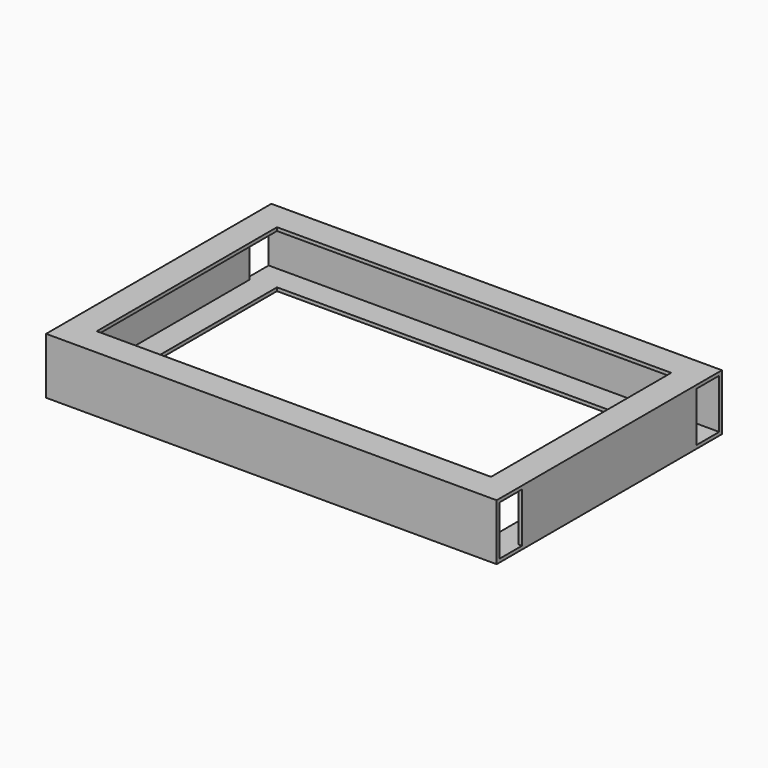
from build123d import *

# Parameters (mm, degrees)
F0_W     = 400
F0_H     = 250
F0_W_2   = 350
F0_H_2   = 200
F1_DEPTH = 50
F2_W     = 25
F2_H     = 44
F3_DEPTH = 250
F4_W     = 25
F4_H     = 44
F5_DEPTH = 400
F6_DEPTH = 25
F7_DEPTH = 25
F8_DEPTH = 25
F9_DEPTH = 25


with BuildPart() as f1:
    # F0 (on Top) → F1 (new body)
    with BuildSketch(Plane.XY):
        Rectangle(F0_W, F0_H)
        Rectangle(F0_W_2, F0_H_2, mode=Mode.SUBTRACT)
    extrude(amount=F1_DEPTH)

    # F2 (on face) → F3 (cut, through all)
    with BuildSketch(Plane.XZ.offset(125)):
        with Locations((184.5, 25)):
            Rectangle(F2_W, F2_H)
        with Locations((-184.5, 25)):
            Rectangle(F2_W, F2_H)
    extrude(amount=-F3_DEPTH, mode=Mode.SUBTRACT)

    # F4 (on face) → F5 (cut, through all)
    with BuildSketch(Plane.YZ.offset(200)):
        with Locations((109.5, 25)):
            Rectangle(F4_W, F4_H)
        with Locations((-109.5, 25)):
            Rectangle(F4_W, F4_H)
    extrude(amount=-F5_DEPTH, mode=Mode.SUBTRACT)

    # F6 (add): a face of the model
    f6_faces = [f1.faces().sort_by_distance(p)[0] for p in [
        (172, -123.5, 25),
    ]]
    extrude(f6_faces, amount=F6_DEPTH)

    # F7 (add): a face of the model
    f7_faces = [f1.faces().sort_by_distance(p)[0] for p in [
        (172, 123.5, 25),
    ]]
    extrude(f7_faces, amount=F7_DEPTH)

    # F8 (add): a face of the model
    f8_faces = [f1.faces().sort_by_distance(p)[0] for p in [
        (-172, 123.5, 25),
    ]]
    extrude(f8_faces, amount=F8_DEPTH)

    # F9 (add): a face of the model
    f9_faces = [f1.faces().sort_by_distance(p)[0] for p in [
        (-172, -123.5, 25),
    ]]
    extrude(f9_faces, amount=F9_DEPTH)


solid = f1.part
